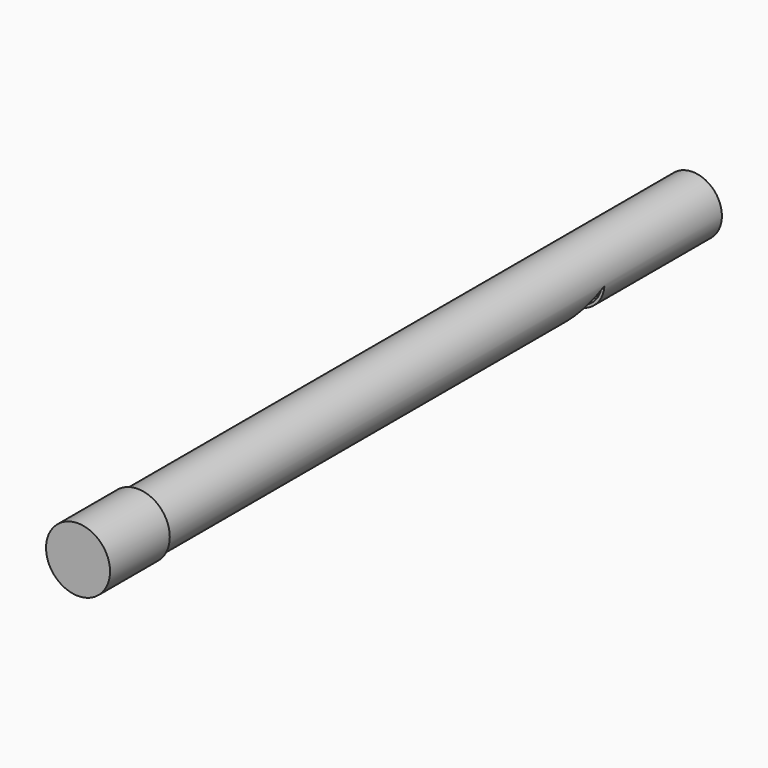
from build123d import *

# Parameters (mm, degrees)
F0_R           = 3.4925
F0_R_2         = 3.175
F2_DEPTH       = 88.9
F3_DEPTH       = 25.4
F4_DEPTH       = 25.4
F4_DEPTH_BACK  = 25.4
F5_R           = 3.1654105668
F6_DEPTH       = 17.526
F8_DEPTH       = 17.78
F10_R          = 3.81
F11_DEPTH      = 2.54
F11_DEPTH_BACK = 6.35
F13_START      = -1.27
F12_R          = 3.505349202
F13_DEPTH      = 5.08


with BuildPart() as f2:
    # F0 (on Front) → F2 (new body)
    with BuildSketch(Plane.XZ):
        with Locations((0, 3.4925)):
            Circle(F0_R)
        with Locations((0, 3.4925)):
            Circle(F0_R_2, mode=Mode.SUBTRACT)
    extrude(amount=F2_DEPTH)

    # F0 (on Front) → F3 (join)
    with BuildSketch(Plane.XZ):
        with Locations((0, 3.4925)):
            Circle(F0_R)
        with Locations((0, 3.4925)):
            Circle(F0_R_2, mode=Mode.SUBTRACT)
    extrude(amount=F3_DEPTH)

    # F1 (on Right) → F4 (cut, two sides)
    with BuildSketch(Plane.YZ) as f4_sk:
        Polygon((-17.4764418069, -3.2384999853), (-17.4761328944, 0), (-23.0844528944, 0), align=None)
        Polygon((-23.0844528944, 0), (-17.4761328944, 0), (-17.4764418069, 3.2384999853), align=None)
    extrude(amount=-F4_DEPTH, mode=Mode.SUBTRACT)
    extrude(f4_sk.sketch, amount=F4_DEPTH_BACK, mode=Mode.SUBTRACT)


with BuildPart() as f6:
    # F5 (on Front) → F6 (new body)
    with BuildSketch(Plane.XZ):
        with Locations((0, 3.5086502321)):
            Circle(F5_R)
    extrude(amount=F6_DEPTH)

    # F7 (on face) → F8 (cut)
    with BuildSketch(Plane.XZ.offset(17.526)):
        with BuildLine():
            ThreePointArc((-2.54, 1.6196758924), (0, 0.3358029715), (2.54, 1.6196758924))
            Line((2.54, 1.6196758924), (-2.54, 1.6196758924))
        make_face()
    extrude(amount=-F8_DEPTH, mode=Mode.SUBTRACT)


with BuildPart() as f11:
    # F10 (on offset) → F11 (new body, two sides)
    with BuildSketch(Plane.XZ.offset(88.9)) as f11_sk:
        with Locations((0, 3.5152491958)):
            Circle(F10_R)
    extrude(amount=F11_DEPTH)
    extrude(f11_sk.sketch, amount=-F11_DEPTH_BACK)

    # F12 (on offset) → F13 (cut)
    with BuildSketch(Plane.XZ.offset(88.9).offset(F13_START)):
        with Locations((0, 3.5152491958)):
            Circle(F12_R)
    extrude(amount=-F13_DEPTH, mode=Mode.SUBTRACT)


solid = Compound([f2.part, f6.part, f11.part])
